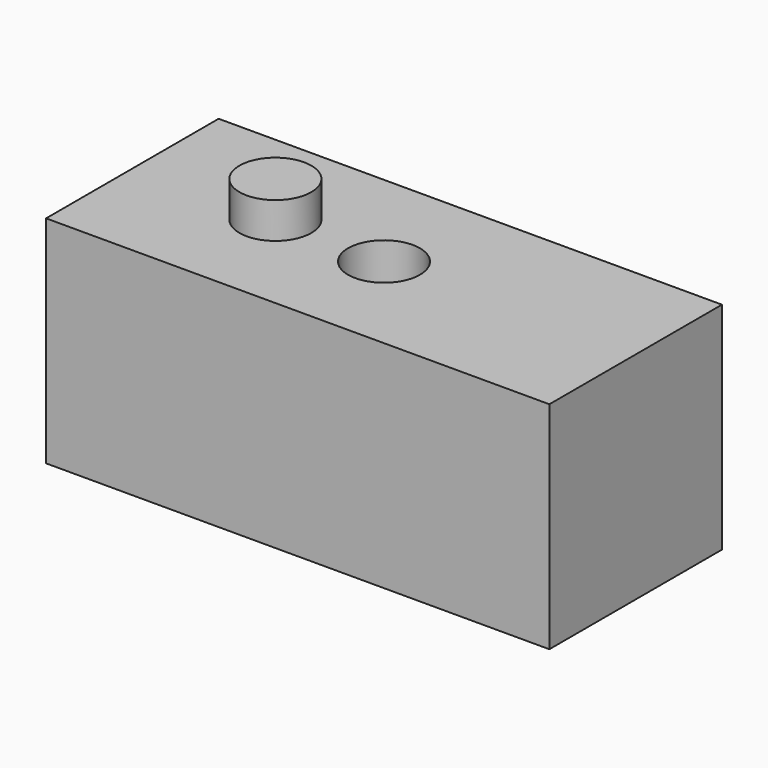
from build123d import *

# Parameters (mm, degrees)
F0_W     = 140
F0_H     = 60
F1_DEPTH = 60
F3_R     = 10
F5_DEPTH = 10
F4_R     = 10
F6_DEPTH = 73.6


with BuildPart() as f1:
    # F0 (on Top) → F1 (new body)
    with BuildSketch(Plane.XY):
        Rectangle(F0_W, F0_H)
    extrude(amount=F1_DEPTH)

    # F3 (on face) → F5 (join)
    with BuildSketch(Plane.XY.offset(60)):
        with Locations((-30.702168, 0.617491)):
            Circle(F3_R)
    extrude(amount=F5_DEPTH)

    # F4 (on face) → F6 (cut)
    with BuildSketch(Plane.XY.offset(60)):
        Circle(F4_R)
    extrude(amount=-F6_DEPTH, mode=Mode.SUBTRACT)


solid = f1.part
